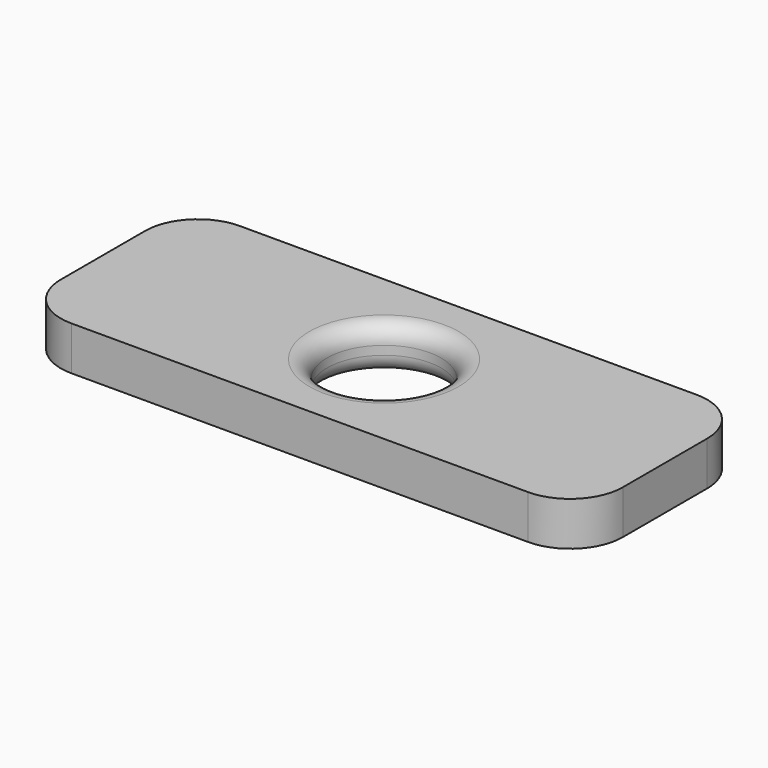
from build123d import *

# Parameters (mm, degrees)
F0_W     = 32
F0_H     = 12
F0_R     = 3.25
F1_DEPTH = 2.5
F2_R     = 3
F3_R     = 1


with BuildPart() as f1:
    # F0 (on Top) → F1 (new body)
    with BuildSketch(Plane.XY):
        Rectangle(F0_W, F0_H)
        Circle(F0_R, mode=Mode.SUBTRACT)
    extrude(amount=F1_DEPTH)

    # F2
    f2_edges = [f1.edges().sort_by_distance(p)[0] for p in [
        (-16, 6, 1.25),
        (-16, -6, 1.25),
        (16, 6, 1.25),
        (16, -6, 1.25),
    ]]
    fillet(f2_edges, radius=F2_R)

    # F3
    f3_edges = [f1.edges().sort_by_distance(p)[0] for p in [
        (-3.25, 0, 2.5),
        (-3.25, 0, 0),
    ]]
    fillet(f3_edges, radius=F3_R)


solid = f1.part
